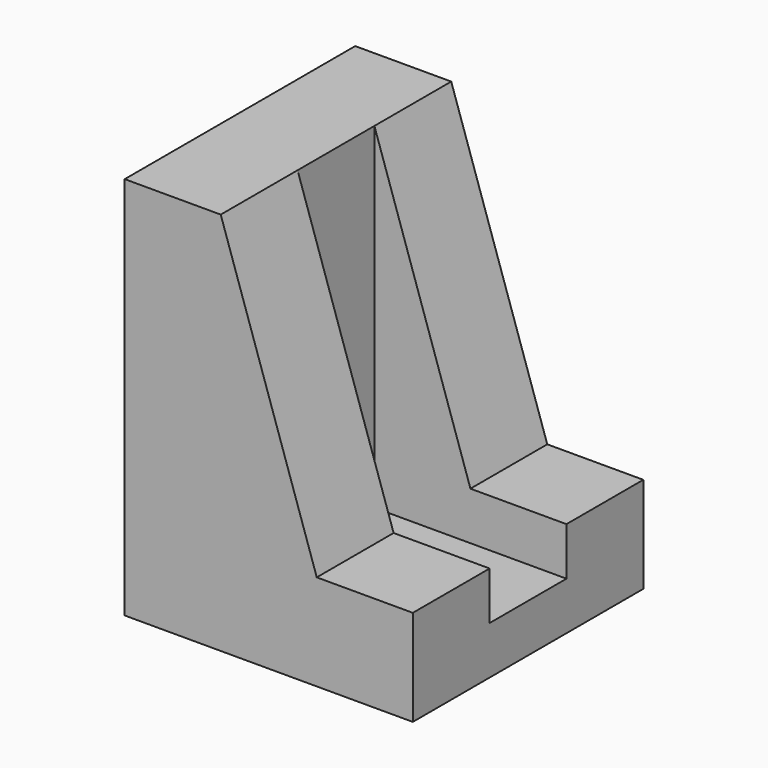
from build123d import *

# Parameters (mm, degrees)
F1_DEPTH = 30
F2_W     = 25.910942
F2_H     = 10
F3_DEPTH = 35


with BuildPart() as f1:
    # F0 (on Front) → F1 (new body)
    with BuildSketch(Plane.XZ):
        Polygon((10, 40), (0, 40), (0, 0), (30, 0), (30, 10), (20, 10), align=None)
    extrude(amount=F1_DEPTH)

    # F2 (on face) → F3 (cut)
    with BuildSketch(Plane.XY.offset(40)):
        with Locations((22.955471, -15)):
            Rectangle(F2_W, F2_H)
    extrude(amount=-F3_DEPTH, mode=Mode.SUBTRACT)


solid = f1.part
